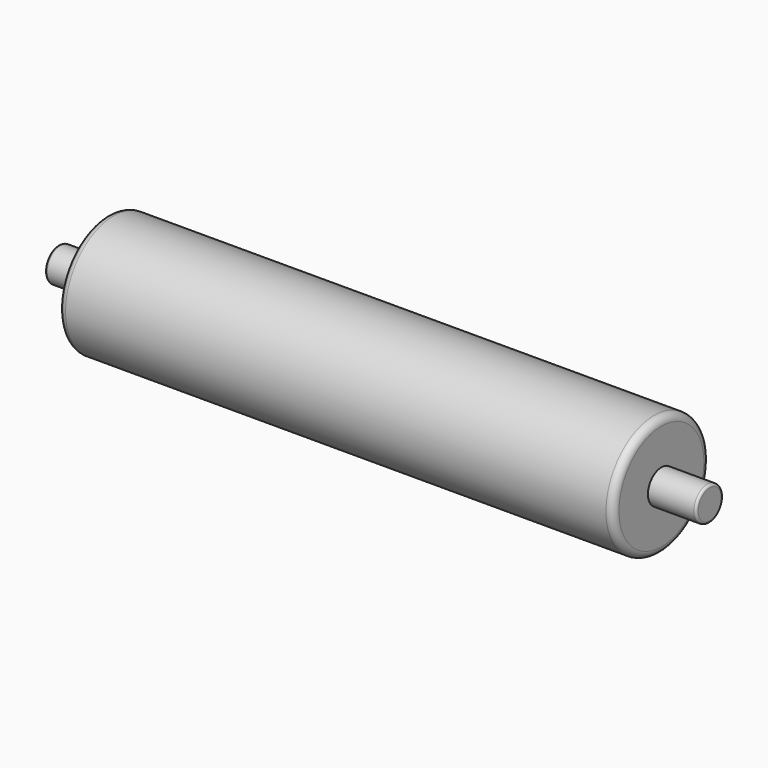
from build123d import *

# Parameters (mm, degrees)
F0_R     = 12.5
F1_DEPTH = 57.5
F2_R     = 3.5
F3_DEPTH = 10
F5_R     = 1.5
F6_R     = 0.5


with BuildPart() as f1:
    # F0 (on Right) → F1 (new body, symmetric)
    with BuildSketch(Plane.YZ):
        Circle(F0_R)
    extrude(amount=F1_DEPTH, both=True)

    # F2 (on face) → F3 (join)
    with BuildSketch(Plane(origin=(-57.5, 0, 0), x_dir=(0, -1, 0), z_dir=(-1, 0, 0))):
        Circle(F2_R)
    extrude(amount=F3_DEPTH)

    # F4: F1 across plane


with BuildPart() as f1_1:
    add(f1.part)
    add(f1.part.mirror(Plane.YZ))

    # F5
    f5_edges = [f1_1.edges().sort_by_distance(p)[0] for p in [
        (-57.5, -12.5, 0),
        (57.5, -12.5, 0),
    ]]
    fillet(f5_edges, radius=F5_R)

    # F6
    f6_edges = [f1_1.edges().sort_by_distance(p)[0] for p in [
        (67.5, 3.5, 0),
        (-67.5, 3.5, 0),
    ]]
    fillet(f6_edges, radius=F6_R)


solid = f1_1.part
